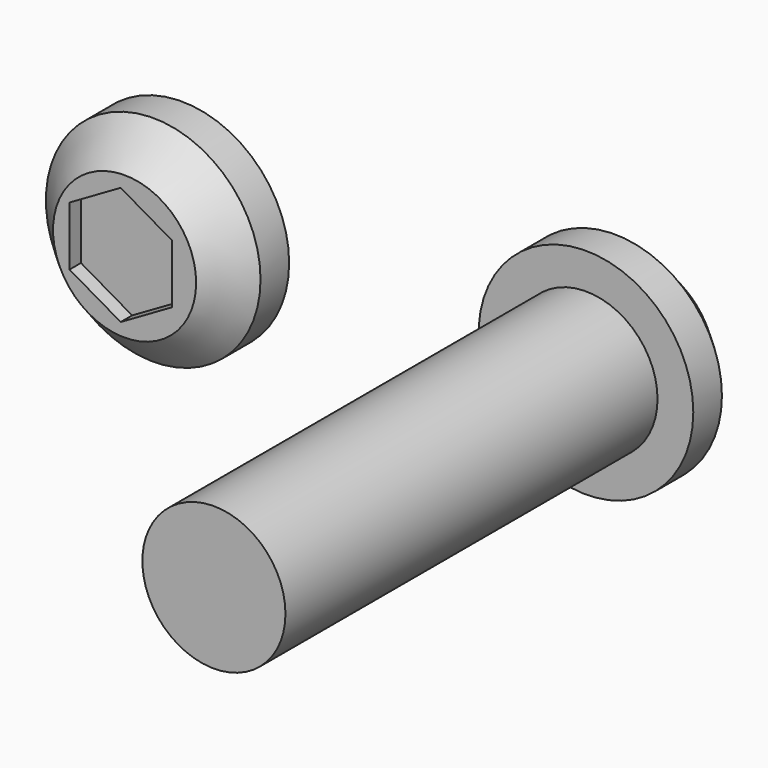
from build123d import *

# Parameters (mm, degrees)
F0_R      = 10
F1_DEPTH  = 65
F0_R_2    = 15
F2_DEPTH  = 10
F3_DEPTH  = 10
F4_DEPTH  = 5
F5_SIZE   = 5
F5_2_SIZE = 5
F7_DEPTH  = 3.7
F10_DEPTH = 2


with BuildPart() as f1:
    # F0 (on Front) → F1 (new body)
    with BuildSketch(Plane.XZ):
        Circle(F0_R)
    extrude(amount=F1_DEPTH)

    # F0 (on Front) → F2 (join)
    with BuildSketch(Plane.XZ):
        Circle(F0_R_2)
        Circle(F0_R, mode=Mode.SUBTRACT)
        Circle(F0_R)
    extrude(amount=-F2_DEPTH)

    # F5
    f5_edges = [f1.edges().sort_by_distance(p)[0] for p in [
        (-15, 10, 0),
    ]]
    chamfer(f5_edges, length=F5_SIZE)

    # F6 (on face) → F7 (cut)
    with BuildSketch(Plane(origin=(0, 10, 0), x_dir=(-1, 0, 0), z_dir=(0, 1, 0))):
        Polygon((-3.7807237503, -6.5484056249), (3.7807237503, -6.5484056249), (7.5614475006, 0), (3.7807237503, 6.5484056249), (-3.7807237503, 6.5484056249), (-7.5614475006, 0), align=None)
    extrude(amount=-F7_DEPTH, mode=Mode.SUBTRACT)


with BuildPart() as f3:
    # F0 (on Front) → F3 (new body)
    with BuildSketch(Plane.XZ):
        with Locations((-56.483566761, 0)):
            Circle(F0_R_2)
        with Locations((-56.483566761, 0)):
            Circle(F0_R, mode=Mode.SUBTRACT)
        with Locations((-56.483566761, 0)):
            Circle(F0_R)
    extrude(amount=F3_DEPTH)

    # F0 (on Front) → F4 (cut)
    with BuildSketch(Plane.XZ):
        with Locations((-56.483566761, 0)):
            Circle(F0_R)
    extrude(amount=F4_DEPTH, mode=Mode.SUBTRACT)

    # F5#2
    f5_2_edges = [f3.edges().sort_by_distance(p)[0] for p in [
        (-71.483567, -10, 0),
    ]]
    chamfer(f5_2_edges, length=F5_2_SIZE)

    # F9 (on offset) → F10 (cut)
    with BuildSketch(Plane.XZ.offset(10)):
        Polygon((-49.8785935342, -4.1273156034), (-49.8785935342, 4.1273156034), (-57.0273138583, 8.2546312069), (-64.1760341823, 4.1273156034), (-64.1760341823, -4.1273156034), (-57.0273138583, -8.2546312069), align=None)
    extrude(amount=-F10_DEPTH, mode=Mode.SUBTRACT)


solid = Compound([f1.part, f3.part])
